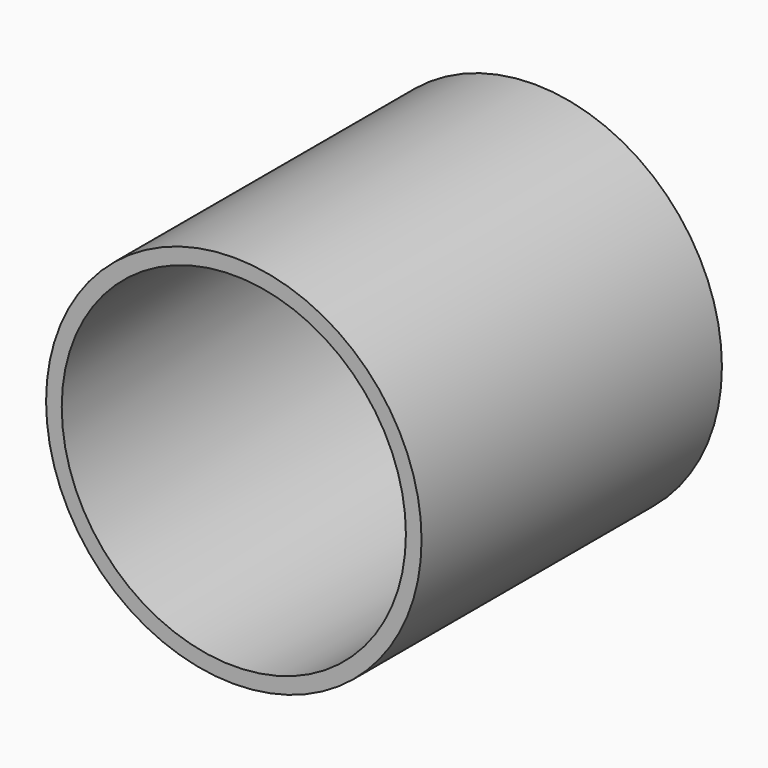
from build123d import *

# Parameters (mm, degrees)
F0_R     = 76.2
F1_DEPTH = 152.4
F2_T     = -6.35


with BuildPart() as f1:
    # F0 (on Front) → F1 (new body)
    with BuildSketch(Plane.XZ):
        Circle(F0_R)
    extrude(amount=-F1_DEPTH)

    # F2
    f2_openings = [f1.faces().sort_by_distance(p)[0] for p in [
        (0, 0, 0),
    ]]
    offset(amount=F2_T, openings=f2_openings)


solid = f1.part
